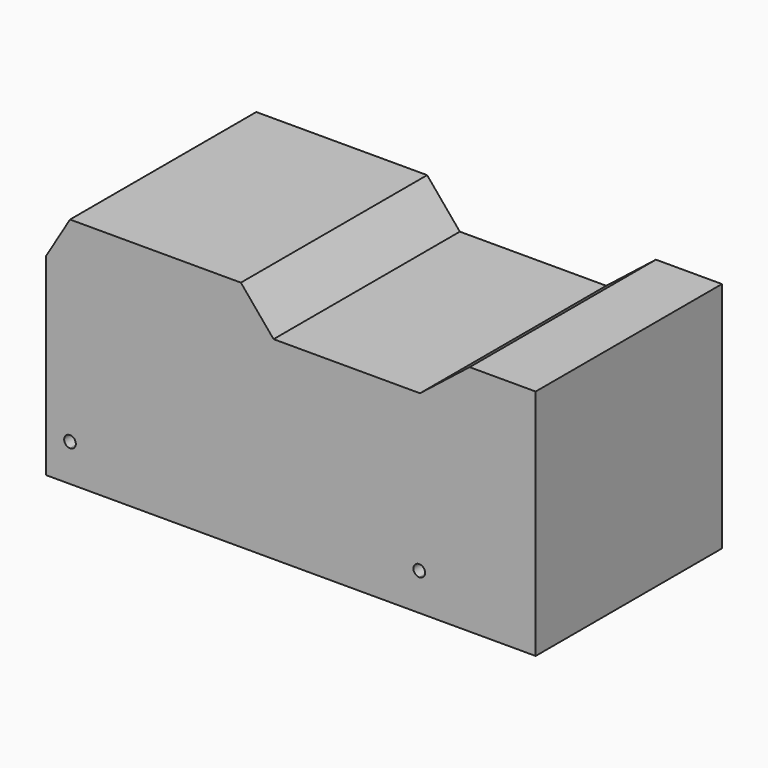
from build123d import *

# Parameters (mm, degrees)
F1_DEPTH = 50
F3_DEPTH = 50.001


with BuildPart() as f1:
    # F0 (on Front) → F1 (new body)
    with BuildSketch(Plane.XZ):
        Polygon((50, -25), (50, 25), (-50, 25), (-55.139105767, 16.4348237216), (-55.139105767, -25), (-50, -25), (25, -25), align=None)
        with BuildLine():
            ThreePointArc((-50, -18.25), (-50.8838834765, -16.1161165235), (-48.75, -17))
            ThreePointArc((-48.75, -17), (-49.1161165235, -17.8838834765), (-50, -18.25))
        make_face(mode=Mode.SUBTRACT)
        with BuildLine():
            ThreePointArc((26.25, -17), (25.8838834765, -17.8838834765), (25, -18.25))
            ThreePointArc((25, -18.25), (24.1161165235, -16.1161165235), (26.25, -17))
        make_face(mode=Mode.SUBTRACT)
    extrude(amount=F1_DEPTH)

    # F2 (on face) → F3 (cut, through all)
    with BuildSketch(Plane.XZ.offset(50)):
        Polygon((-13.3059184471, 25), (-6.2843365967, 16.5958899073), (25.1635871455, 16.5958899073), (35.8255155264, 25), align=None)
    extrude(amount=-F3_DEPTH, mode=Mode.SUBTRACT)


solid = f1.part
